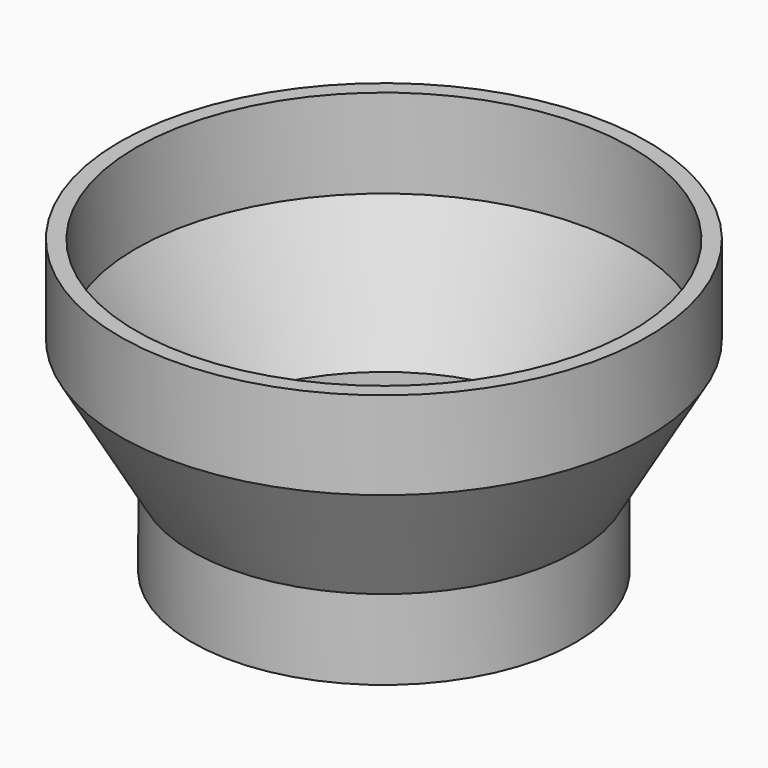
from build123d import *

# Parameters (mm, degrees)
F0_R     = 24
F1_DEPTH = 10
F2_R     = 23
F3_DEPTH = 10.001


with BuildPart() as f1:
    # F0 (on Top) → F1 (new body)
    with BuildSketch(Plane.XY):
        Circle(F0_R)
    extrude(amount=F1_DEPTH)

    # F2 (on face) → F3 (cut, through all)
    with BuildSketch(Plane.XY.offset(10)):
        Circle(F2_R)
    extrude(amount=-F3_DEPTH, mode=Mode.SUBTRACT)

    # F4 (on Front) → F5 (revolve)
    with BuildSketch(Plane.XZ):
        Polygon((-23, 10), (-31.011236, 25.47067), (-31.011236, 36.581965), (-33.011236, 36.581965), (-33.011236, 25.581965), (-24, 10), align=None)
    revolve(axis=Axis((0, 0, 10), (0, 0, 1)))


solid = f1.part
